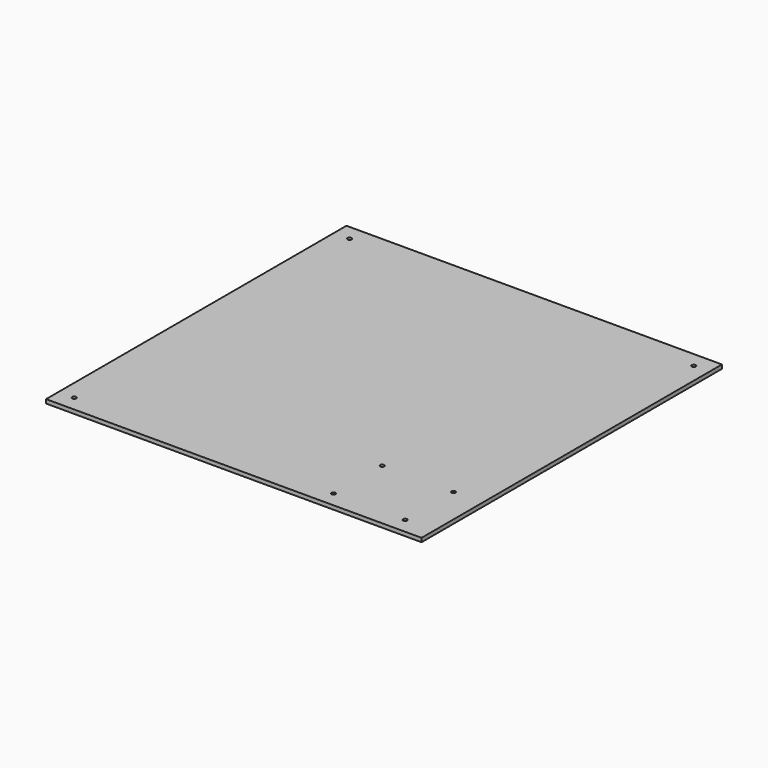
from build123d import *

# Parameters (mm, degrees)
F0_W     = 304.8
F0_H     = 304.8
F0_R     = 1.63195
F1_DEPTH = 3.175


with BuildPart() as f1:
    # F0 (on Top) → F1 (new body)
    with BuildSketch(Plane.XY):
        with Locations((-88.695353, 96.468838)):
            Rectangle(F0_W, F0_H)
        with Locations((-228.395353, -43.231162)):
            Circle(F0_R, mode=Mode.SUBTRACT)
        with Locations((-17.795353, -43.231162)):
            Circle(F0_R, mode=Mode.SUBTRACT)
        with Locations((-17.607836, 5.768838)):
            Circle(F0_R, mode=Mode.SUBTRACT)
        with Locations((40.204647, -43.231162)):
            Circle(F0_R, mode=Mode.SUBTRACT)
        with Locations((40.209647, 5.768838)):
            Circle(F0_R, mode=Mode.SUBTRACT)
        with Locations((-228.395353, 236.168838)):
            Circle(F0_R, mode=Mode.SUBTRACT)
        with Locations((51.004647, 236.168838)):
            Circle(F0_R, mode=Mode.SUBTRACT)
    extrude(amount=F1_DEPTH)


solid = f1.part
